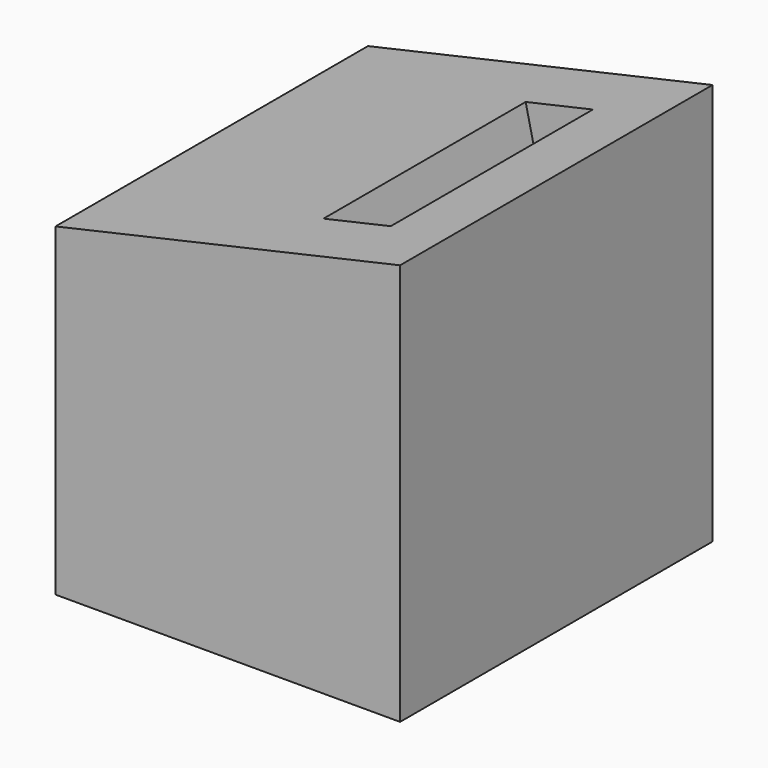
from build123d import *

# Parameters (mm, degrees)
F1_DEPTH = 34
F3_DEPTH = 20


with BuildPart() as f1:
    # F0 (on Front) → F1 (new body)
    with BuildSketch(Plane.XZ):
        Polygon((0, 28.2258064516), (0, 0), (30, 0), (30, 35), align=None)
    extrude(amount=F1_DEPTH)

    # F2 (on face) → F3 (cut)
    with BuildSketch(Plane(origin=(-6.0643564356, 0, 26.8564356436), x_dir=(0.9754410021, 0, 0.2202608714), z_dir=(-0.2202608714, 0, 0.9754410021))):
        Polygon((30.9723605622, -6), (30.9723605622, -17), (30.9723605622, -28), (31.217040726, -28), (31.217040726, -17), (31.217040726, -6), align=None)
        Polygon((30.9723605622, -28), (30.9723605622, -17), (30.9723605622, -6), (25.217040726, -6), (25.217040726, -17), (25.217040726, -28), align=None)
        Polygon((30.9723605622, -28), (30.9723605622, -17), (30.9723605622, -6), (25.217040726, -6), (25.217040726, -17), (25.217040726, -28), align=None)
        Polygon((30.9723605622, -6), (30.9723605622, -17), (30.9723605622, -28), (31.217040726, -28), (31.217040726, -17), (31.217040726, -6), align=None)
    extrude(amount=-F3_DEPTH, mode=Mode.SUBTRACT)


solid = f1.part
